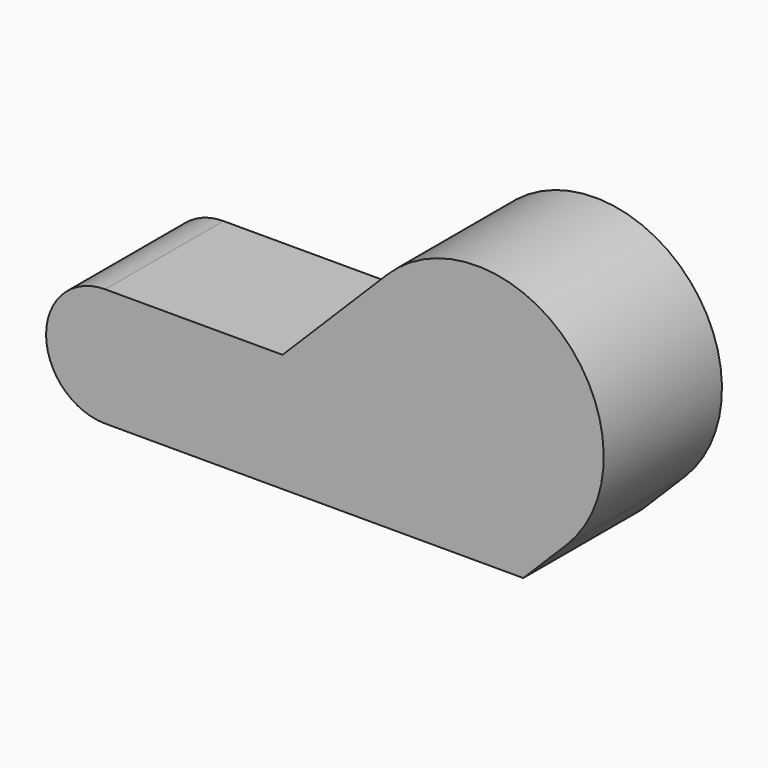
from build123d import *

# Parameters (mm, degrees)
F1_DEPTH = 25


with BuildPart() as f1:
    # F0 (on Front) → F1 (new body)
    with BuildSketch(Plane.XZ):
        with BuildLine():
            ThreePointArc((0, 20), (-10, 10), (0, 0))
            Line((0, 0), (0, 20))
        make_face()
        Polygon((0, 20), (0, 0), (70.710678, 0), (78.033009, 7.32233), (47.67767, 37.67767), (30, 20), align=None)
        with BuildLine():
            Line((47.67767, 37.67767), (78.033009, 7.32233))
            ThreePointArc((78.033009, 7.32233), (78.033009, 37.67767), (47.67767, 37.67767))
        make_face()
    extrude(amount=F1_DEPTH)


solid = f1.part
